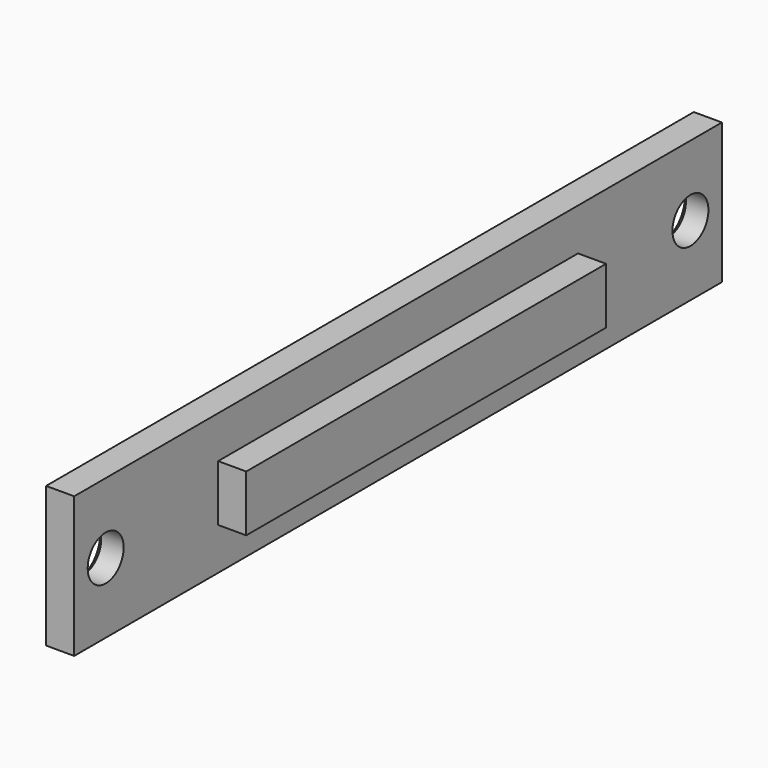
from build123d import *

# Parameters (mm, degrees)
SKETCH056_W             = 28.8
SKETCH056_H             = 5
PAD024_DEPTH            = 1
SKETCH057_W             = 16
SKETCH057_H             = 2
PAD025_DEPTH            = 2
SKETCH058_R             = 0.8
POCKET026_DEPTH         = 5
CHAMFER023_SIZE         = 0.2
BODY019_PLACEMENT_ANGLE = 180


with BuildPart() as part:
    # Sketch056 → Pad024 (new body)
    with BuildSketch(Plane.YZ):
        with Locations((0, 7.7)):
            Rectangle(SKETCH056_W, SKETCH056_H)
    extrude(amount=-PAD024_DEPTH)

    # Sketch057 → Pad025 (join)
    with BuildSketch(Plane.YZ):
        with Locations((0, 7.7)):
            Rectangle(SKETCH057_W, SKETCH057_H)
    extrude(amount=-PAD025_DEPTH)

    # Sketch058 → Pocket026 (cut)
    with BuildSketch(Plane.YZ):
        with Locations((-13, 7.7)):
            Circle(SKETCH058_R)
        with Locations((13, 7.7)):
            Circle(SKETCH058_R)
    extrude(amount=-POCKET026_DEPTH, mode=Mode.SUBTRACT)

    # Chamfer023
    chamfer023_edges = [part.edges().sort_by_distance(p)[0] for p in [
        (0, -13.8, 7.7),
        (0, 12.2, 7.7),
    ]]
    chamfer(chamfer023_edges, length=CHAMFER023_SIZE)


with BuildPart() as part_1:
    # Body019 placement: moved
    add(part.part.moved(Location((25.8, 0, -0.5))).rotate(Axis((25.8, 0, -0.5), (0, 0, 1)), BODY019_PLACEMENT_ANGLE))


solid = part_1.part
